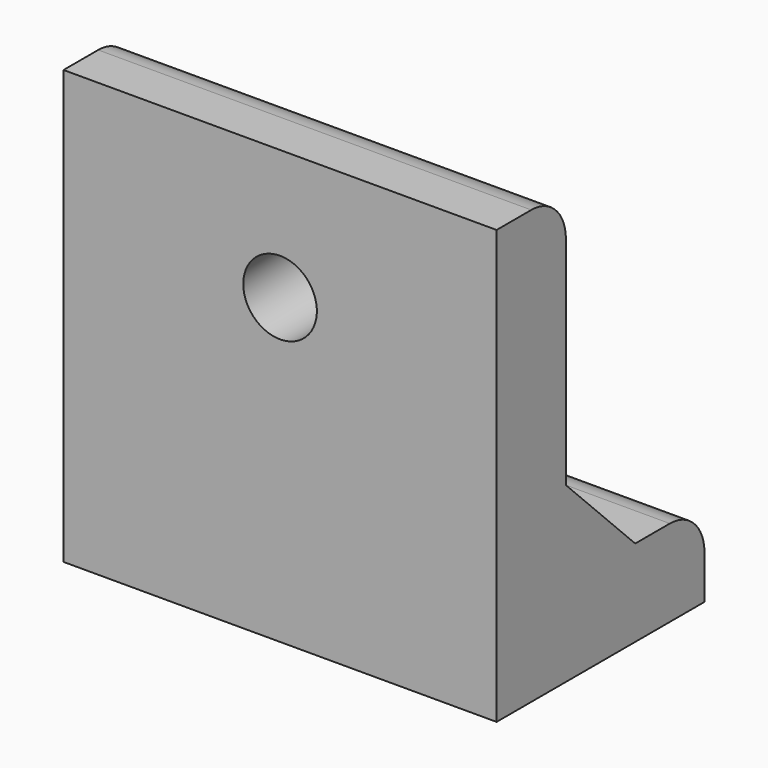
from build123d import *

# Parameters (mm, degrees)
F1_DEPTH = 12.5
F2_R     = 2.125
F3_DEPTH = 5.001
F4_R     = 2.125
F5_DEPTH = 5.001
F6_R     = 2.5
F7_R     = 3.5
F8_DEPTH = 20.001


with BuildPart() as f1:
    # F0 (on Right) → F1 (new body, symmetric)
    with BuildSketch(Plane.YZ):
        Polygon((5, 25), (0, 25), (0, 0), (15, 0), (15, 5), (10, 5), (5, 10), align=None)
    extrude(amount=F1_DEPTH, both=True)

    # F2 (on face) → F3 (cut, through all)
    with BuildSketch(Plane.XY.offset(5)):
        with Locations((0, 10)):
            Circle(F2_R)
    extrude(amount=-F3_DEPTH, mode=Mode.SUBTRACT)

    # F4 (on face) → F5 (cut, through all)
    with BuildSketch(Plane(origin=(0, 5, 0), x_dir=(-1, 0, 0), z_dir=(0, 1, 0))):
        with Locations((0, 17.5)):
            Circle(F4_R)
    extrude(amount=-F5_DEPTH, mode=Mode.SUBTRACT)

    # F6
    f6_edges = [f1.edges().sort_by_distance(p)[0] for p in [
        (0, 15, 5),
        (0, 5, 25),
    ]]
    fillet(f6_edges, radius=F6_R)

    # F7 (on face) → F8 (cut, through all)
    with BuildSketch(Plane(origin=(0, 0, 5), x_dir=(1, 0, 0), z_dir=(0, 0, -1))):
        with Locations((0, -10)):
            Circle(F7_R)
    extrude(amount=-F8_DEPTH, mode=Mode.SUBTRACT)


solid = f1.part
